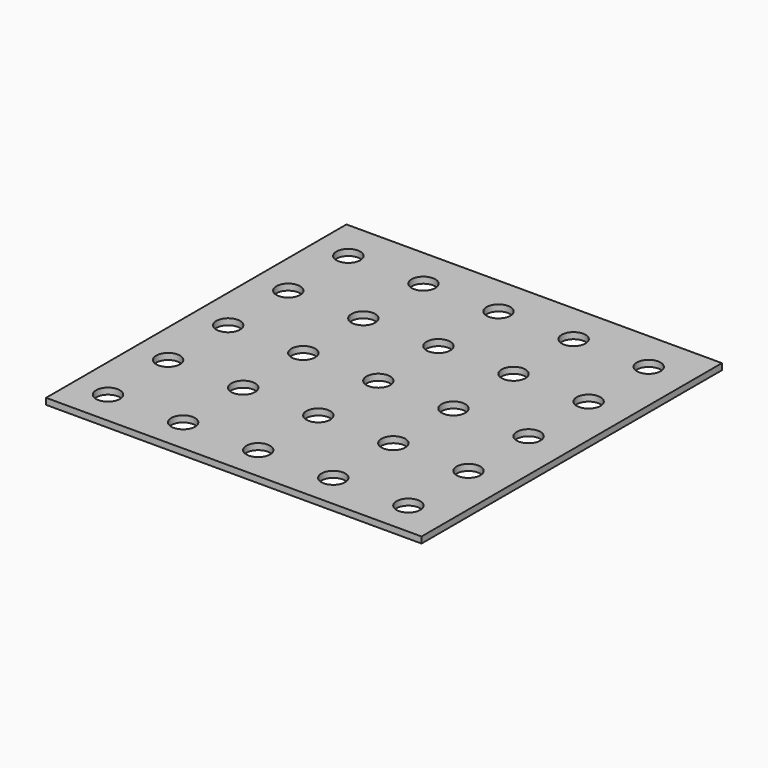
from build123d import *

# Parameters (mm, degrees)
F0_W     = 600
F0_H     = 600
F0_R     = 19
F1_DEPTH = 10


with BuildPart() as f1:
    # F0 (on Top) → F1 (new body)
    with BuildSketch(Plane.XY):
        with Locations((24.970765, 120.387087)):
            Rectangle(F0_W, F0_H)
        with Locations((-220.029235, -124.612913)):
            Circle(F0_R, mode=Mode.SUBTRACT)
        with Locations((-100.029235, -124.612913)):
            Circle(F0_R, mode=Mode.SUBTRACT)
        with Locations((19.970765, -124.612913)):
            Circle(F0_R, mode=Mode.SUBTRACT)
        with Locations((-220.029235, -4.612913)):
            Circle(F0_R, mode=Mode.SUBTRACT)
        with Locations((-220.029235, 115.387087)):
            Circle(F0_R, mode=Mode.SUBTRACT)
        with Locations((-100.029235, -4.612913)):
            Circle(F0_R, mode=Mode.SUBTRACT)
        with Locations((19.970765, -4.612913)):
            Circle(F0_R, mode=Mode.SUBTRACT)
        with Locations((-100.029235, 115.387087)):
            Circle(F0_R, mode=Mode.SUBTRACT)
        with Locations((19.970765, 115.387087)):
            Circle(F0_R, mode=Mode.SUBTRACT)
        with Locations((139.970765, -124.612913)):
            Circle(F0_R, mode=Mode.SUBTRACT)
        with Locations((259.970765, -124.612913)):
            Circle(F0_R, mode=Mode.SUBTRACT)
        with Locations((139.970765, -4.612913)):
            Circle(F0_R, mode=Mode.SUBTRACT)
        with Locations((139.970765, 115.387087)):
            Circle(F0_R, mode=Mode.SUBTRACT)
        with Locations((259.970765, -4.612913)):
            Circle(F0_R, mode=Mode.SUBTRACT)
        with Locations((259.970765, 115.387087)):
            Circle(F0_R, mode=Mode.SUBTRACT)
        with Locations((-220.029235, 235.387087)):
            Circle(F0_R, mode=Mode.SUBTRACT)
        with Locations((-100.029235, 235.387087)):
            Circle(F0_R, mode=Mode.SUBTRACT)
        with Locations((19.970765, 235.387087)):
            Circle(F0_R, mode=Mode.SUBTRACT)
        with Locations((-220.029235, 355.387087)):
            Circle(F0_R, mode=Mode.SUBTRACT)
        with Locations((-100.029235, 355.387087)):
            Circle(F0_R, mode=Mode.SUBTRACT)
        with Locations((19.970765, 355.387087)):
            Circle(F0_R, mode=Mode.SUBTRACT)
        with Locations((139.970765, 235.387087)):
            Circle(F0_R, mode=Mode.SUBTRACT)
        with Locations((259.970765, 235.387087)):
            Circle(F0_R, mode=Mode.SUBTRACT)
        with Locations((139.970765, 355.387087)):
            Circle(F0_R, mode=Mode.SUBTRACT)
        with Locations((259.970765, 355.387087)):
            Circle(F0_R, mode=Mode.SUBTRACT)
    extrude(amount=-F1_DEPTH)


solid = f1.part
